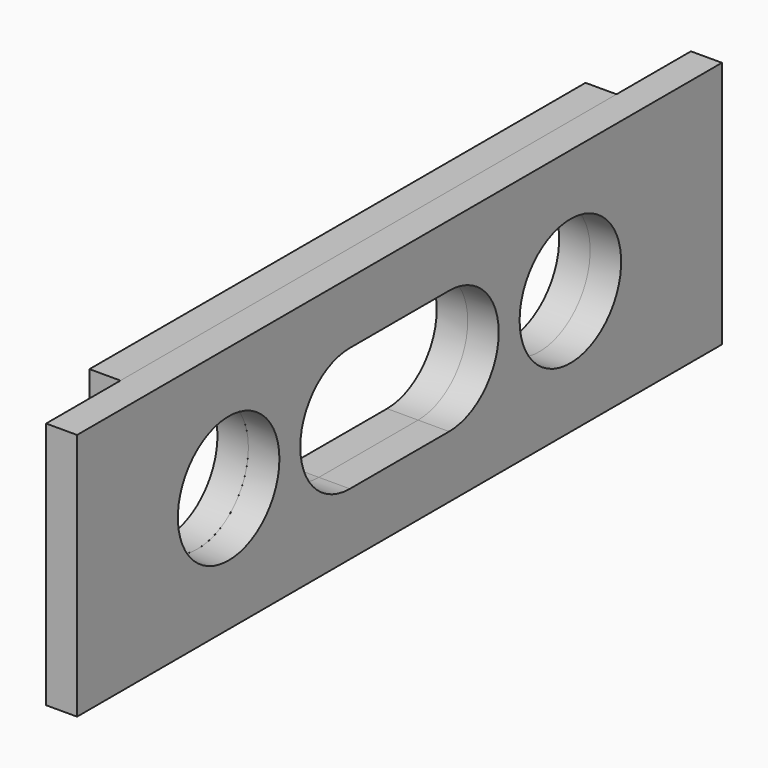
from build123d import *

# Parameters (mm, degrees)
F0_W     = 165.1
F0_H     = 50.8
F0_R     = 13
F1_DEPTH = 6.35
F2_W     = 127
F2_H     = 50.8
F2_R     = 13
F3_DEPTH = 6.35
F5_DEPTH = 12.701


with BuildPart() as f1:
    # F0 (on Right) → F1 (new body)
    with BuildSketch(Plane.YZ):
        with Locations((-82.55, 25.4)):
            Rectangle(F0_W, F0_H)
        with Locations((-126.3, 25.4)):
            Circle(F0_R, mode=Mode.SUBTRACT)
        with BuildLine():
            ThreePointArc((-25.8, 25.4), (-38.8, 12.4), (-51.8, 25.4))
            ThreePointArc((-51.8, 25.4), (-38.8, 38.4), (-25.8, 25.4))
        make_face(mode=Mode.SUBTRACT)
    extrude(amount=F1_DEPTH)


with BuildPart() as f3:
    # F2 (on face) → F3 (new body)
    with BuildSketch(Plane(origin=(0, 0, 0), x_dir=(0, -1, 0), z_dir=(-1, 0, 0))):
        with Locations((82.55, 25.4)):
            Rectangle(F2_W, F2_H)
        with Locations((126.3, 25.4)):
            Circle(F2_R, mode=Mode.SUBTRACT)
        with Locations((38.8, 25.4)):
            Circle(F2_R, mode=Mode.SUBTRACT)
    extrude(amount=F3_DEPTH)


with BuildPart() as f5_tool:
    # F4 (on face) → F5 (new body, through all)
    with BuildSketch(Plane(origin=(-6.35, 0, 0), x_dir=(0, -1, 0), z_dir=(-1, 0, 0))):
        with BuildLine():
            ThreePointArc((69.85, 12.7), (78.830256, 16.419744), (82.55, 25.4))
            ThreePointArc((82.55, 25.4), (78.830256, 34.380256), (69.85, 38.1))
            ThreePointArc((69.85, 38.1), (57.15, 25.4), (69.85, 12.7))
        make_face()
        with BuildLine():
            ThreePointArc((95.25, 12.7), (86.269744, 16.419744), (82.55, 25.4))
            ThreePointArc((82.55, 25.4), (78.830256, 16.419744), (69.85, 12.7))
            Line((69.85, 12.7), (95.25, 12.7))
        make_face()
        with BuildLine():
            ThreePointArc((69.85, 38.1), (78.830256, 34.380256), (82.55, 25.4))
            ThreePointArc((82.55, 25.4), (86.269744, 34.380256), (95.25, 38.1))
            Line((95.25, 38.1), (69.85, 38.1))
        make_face()
        with BuildLine():
            ThreePointArc((95.25, 38.1), (86.269744, 34.380256), (82.55, 25.4))
            ThreePointArc((82.55, 25.4), (86.269744, 16.419744), (95.25, 12.7))
            ThreePointArc((95.25, 12.7), (104.230256, 16.419744), (107.95, 25.4))
            ThreePointArc((107.95, 25.4), (104.230256, 34.380256), (95.25, 38.1))
        make_face()
    extrude(amount=-F5_DEPTH)


with BuildPart() as f1_1:
    add(f1.part)

    # F5: cut by f5_tool
    add(f5_tool.part, mode=Mode.SUBTRACT)


with BuildPart() as f3_1:
    add(f3.part)

    # F5: cut by f5_tool
    add(f5_tool.part, mode=Mode.SUBTRACT)


solid = Compound([f1_1.part, f3_1.part])
